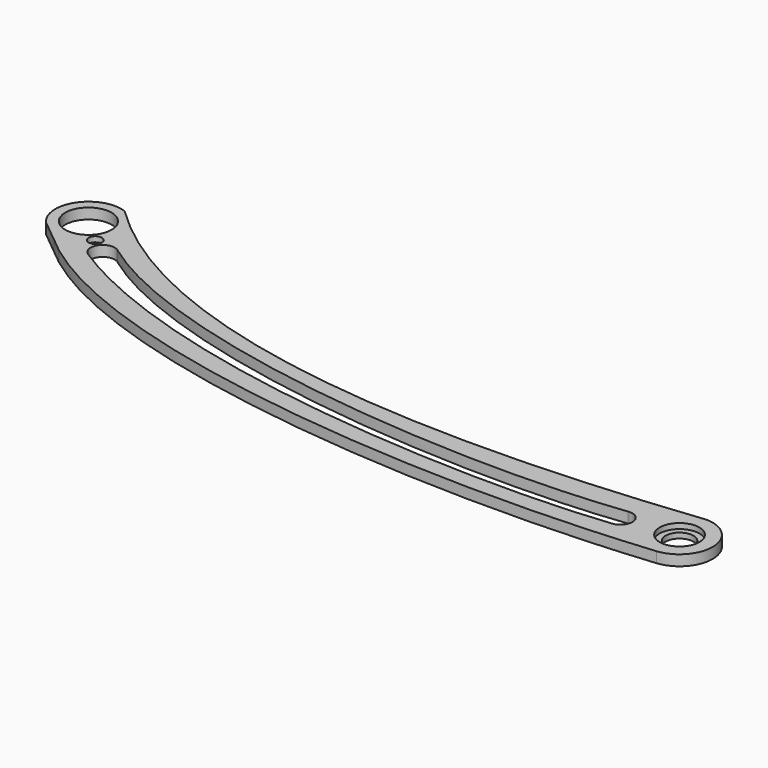
from build123d import *

# Parameters (mm, degrees)
F0_R     = 2.667
F0_R_2   = 4.445
F1_DEPTH = 2.032
F2_R     = 3.81
F2_R_2   = 2.667
F3_DEPTH = 1.016
F4_R     = 0.8255
F5_DEPTH = 25.4
F6_R     = 1.27
F6_R_2   = 0.8255
F7_DEPTH = 1.016


with BuildPart() as f1:
    # F0 (on Top) → F1 (new body)
    with BuildSketch(Plane.XY):
        with BuildLine():
            add(Edge.make_bspline(
                [(-145.868866, -44.894167), (-120.497901, -64.009491), (-61.215703, -69.641742), (-14.993979, -65.151666)],
                knots=[9.170404, 9.170404, 9.170404, 9.170404, 137.962933, 137.962933, 137.962933, 137.962933], degree=3))
            ThreePointArc((-14.993979, -65.151666), (-9.324049, -58.574673), (-15.518729, -52.489373))
            add(Edge.make_bspline(
                [(-146.219774, -28.744672), (-115.405727, -58.829742), (-57.500496, -57.185757), (-15.518729, -52.489373)],
                knots=[0, 0, 0, 0, 132.840408, 132.840408, 132.840408, 132.840408], degree=3))
            ThreePointArc((-146.219774, -28.744672), (-153.683566, -31.230107), (-153.002516, -39.06731))
            Line((-153.002516, -39.06731), (-148.648748, -42.623523))
            Line((-148.648748, -42.623523), (-145.868866, -44.894167))
        make_face()
        with BuildLine():
            ThreePointArc((-139.274802, -39.208483), (-139.147445, -39.296108), (-139.026302, -39.392141))
            add(Edge.make_bspline(
                [(-139.026302, -39.392141), (-115.753381, -56.46456), (-60.102287, -61.779262), (-26.410974, -57.775153)],
                knots=[0.407587, 0.407587, 0.407587, 0.407587, 114.352849, 114.352849, 114.352849, 114.352849], degree=3))
            ThreePointArc((-26.410974, -57.775153), (-26.324509, -57.763146), (-26.237649, -57.754448))
            ThreePointArc((-26.237649, -57.754448), (-23.774802, -59.84872), (-25.869074, -62.311568))
            add(Edge.make_bspline(
                [(-25.869074, -62.311568), (-50.159443, -65.067545), (-110.336117, -63.282199), (-141.737208, -43.118283)],
                knots=[0, 0, 0, 0, 117.447038, 117.447038, 117.447038, 117.447038], degree=3))
            ThreePointArc((-141.737208, -43.118283), (-142.408404, -39.965245), (-139.274802, -39.208483))
        make_face(mode=Mode.SUBTRACT)
        with Locations((-15.668603, -58.837604)):
            Circle(F0_R, mode=Mode.SUBTRACT)
        with Locations((-148.376669, -34.717133)):
            Circle(F0_R_2, mode=Mode.SUBTRACT)
    extrude(amount=F1_DEPTH)

    # F2 (on face) → F3 (cut)
    with BuildSketch(Plane.XY.offset(2.032)):
        with Locations((-15.668603, -58.837604)):
            Circle(F2_R)
        with Locations((-15.668603, -58.837604)):
            Circle(F2_R_2, mode=Mode.SUBTRACT)
    extrude(amount=-F3_DEPTH, mode=Mode.SUBTRACT)

    # F4 (on face) → F5 (cut)
    with BuildSketch(Plane.XY.offset(2.032)):
        with Locations((-143.734038, -38.867451)):
            Circle(F4_R)
    extrude(amount=-F5_DEPTH, mode=Mode.SUBTRACT)

    # F6 (on face) → F7 (cut)
    with BuildSketch(Plane.XY.offset(2.032)):
        with Locations((-143.734038, -38.867451)):
            Circle(F6_R)
        with Locations((-143.734038, -38.867451)):
            Circle(F6_R_2, mode=Mode.SUBTRACT)
    extrude(amount=-F7_DEPTH, mode=Mode.SUBTRACT)


solid = f1.part
